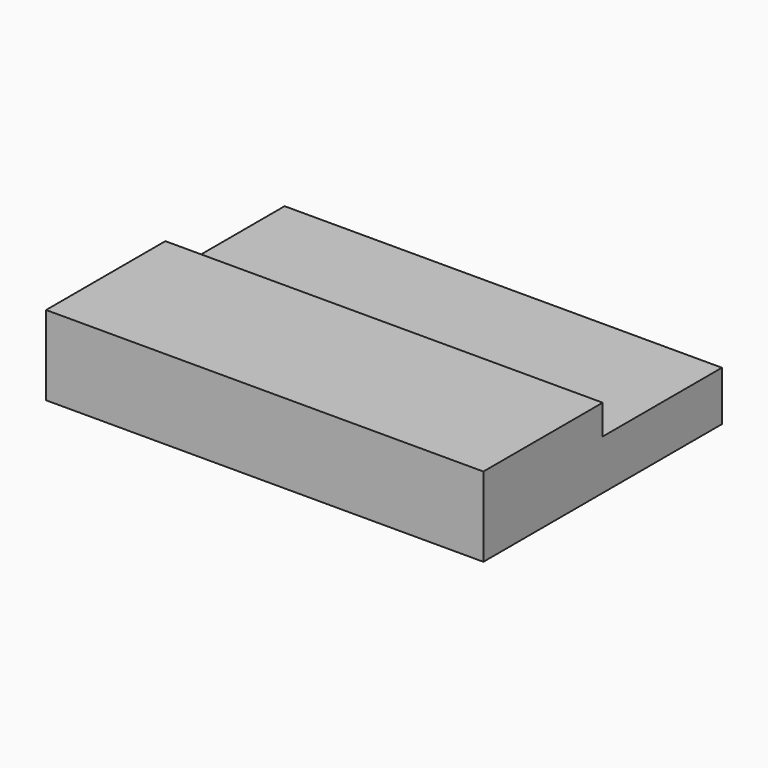
from build123d import *

# Parameters (mm, degrees)
BOX001_W     = 44
BOX001_H     = 30
BOX001_DEPTH = 5
BOX_W        = 44
BOX_H        = 15
BOX_DEPTH    = 8


with BuildPart() as cube001:
    # Box001 → Box001 (new body)
    with BuildSketch(Plane.XY):
        with Locations((22, 15)):
            Rectangle(BOX001_W, BOX001_H)
    extrude(amount=BOX001_DEPTH)


with BuildPart() as fusion:
    # Box → Box (new body)
    with BuildSketch(Plane.XY):
        with Locations((22, 7.5)):
            Rectangle(BOX_W, BOX_H)
    extrude(amount=BOX_DEPTH)

    # Fusion: union Cube001
    add(cube001.part)


solid = fusion.part
